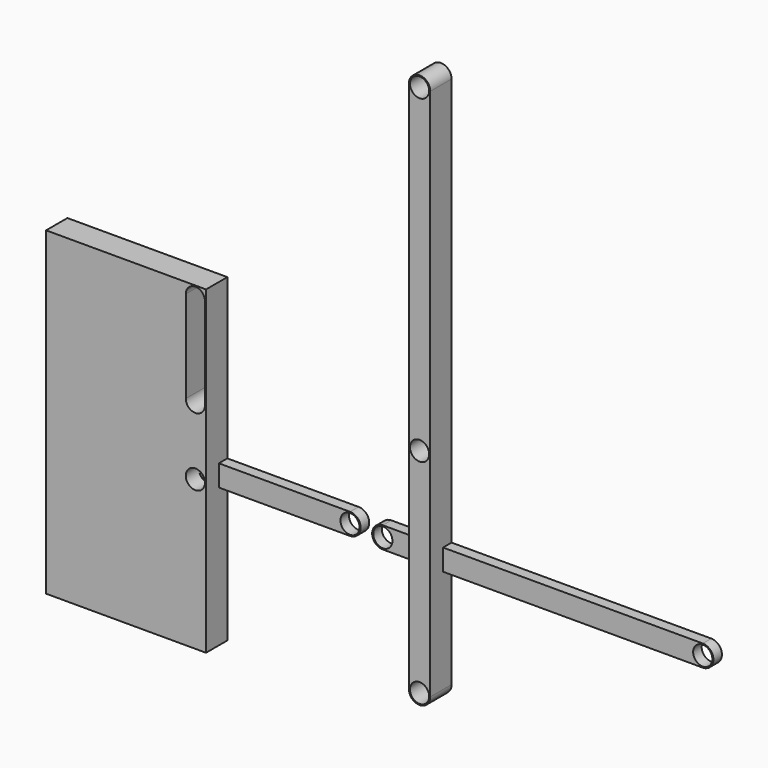
from build123d import *

# Parameters (mm, degrees)
F0_R     = 9
F1_DEPTH = 25
F2_W     = 150
F2_H     = 300
F2_R     = 9
F3_DEPTH = 25
F4_R     = 9
F5_DEPTH = 10
F6_R     = 9
F7_DEPTH = 10


with BuildPart() as f1:
    # F0 (on Front) → F1 (new body)
    with BuildSketch(Plane.XZ):
        with BuildLine():
            Line((10, 0), (10, 500))
            ThreePointArc((10, 500), (0, 510), (-10, 500))
            Line((-10, 500), (-10, 0))
            ThreePointArc((-10, 0), (0, -10), (10, 0))
        make_face()
        Circle(F0_R, mode=Mode.SUBTRACT)
        with Locations((0, 200)):
            Circle(F0_R, mode=Mode.SUBTRACT)
        with Locations((0, 500)):
            Circle(F0_R, mode=Mode.SUBTRACT)
    extrude(amount=F1_DEPTH)


with BuildPart() as f3:
    # F2 (on Front) → F3 (new body)
    with BuildSketch(Plane.XZ):
        with Locations((-275.277209, 118.042635)):
            Rectangle(F2_W, F2_H)
        with Locations((-210.277209, 108.042635)):
            Circle(F2_R, mode=Mode.SUBTRACT)
        with BuildLine():
            ThreePointArc((-219.277209, 258.042635), (-210.277209, 267.042635), (-201.277209, 258.042635))
            Line((-201.277209, 258.042635), (-201.277209, 171.769887))
            ThreePointArc((-201.277209, 171.769887), (-210.277209, 162.769887), (-219.277209, 171.769887))
            Line((-219.277209, 171.769887), (-219.277209, 258.042635))
        make_face(mode=Mode.SUBTRACT)
    extrude(amount=F3_DEPTH)


with BuildPart() as f5:
    # F4 (on Front) → F5 (new body)
    with BuildSketch(Plane.XZ):
        with BuildLine():
            Line((-77.221449, 118.384557), (-210.301742, 118.384557))
            ThreePointArc((-210.301742, 118.384557), (-220.301742, 108.384557), (-210.301742, 98.384557))
            Line((-210.301742, 98.384557), (-77.221449, 98.384557))
            ThreePointArc((-77.221449, 98.384557), (-67.221449, 108.384557), (-77.221449, 118.384557))
        make_face()
        with Locations((-210.301742, 108.384557)):
            Circle(F4_R, mode=Mode.SUBTRACT)
        with Locations((-77.221449, 108.384557)):
            Circle(F4_R, mode=Mode.SUBTRACT)
    extrude(amount=F5_DEPTH)


with BuildPart() as f7:
    # F6 (on Front) → F7 (new body)
    with BuildSketch(Plane.XZ):
        with BuildLine():
            Line((253.546802, 117.239939), (-46.453198, 117.239939))
            ThreePointArc((-46.453198, 117.239939), (-56.453184, 107.223272), (-46.419864, 97.239995))
            Line((-46.419864, 97.239995), (253.5468, 97.239939))
            ThreePointArc((253.5468, 97.239939), (263.546802, 107.239938), (253.546802, 117.239939))
        make_face()
        with Locations((-46.453198, 107.239939)):
            Circle(F6_R, mode=Mode.SUBTRACT)
        with Locations((253.546802, 107.239939)):
            Circle(F6_R, mode=Mode.SUBTRACT)
    extrude(amount=F7_DEPTH)


solid = Compound([f1.part, f3.part, f5.part, f7.part])
